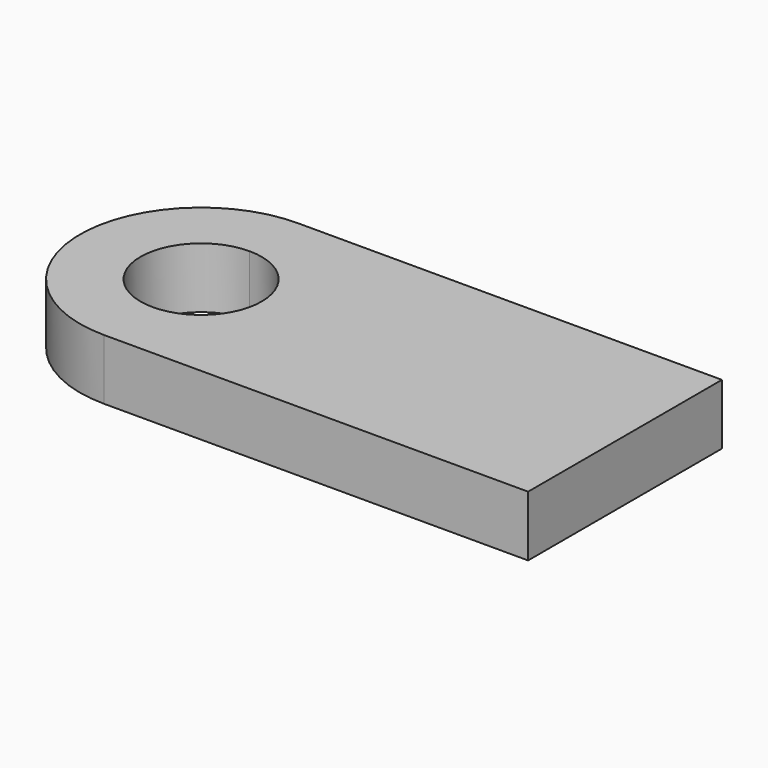
from build123d import *

# Parameters (mm, degrees)
F1_DEPTH = 20


with BuildPart() as f1:
    # F0 (on Top) → F1 (new body)
    with BuildSketch(Plane.XY):
        Polygon((70, 20), (70, 40), (14, 40), (14, -40), (70, -40), (70, -20), align=None)
        Polygon((14, -40), (14, 40), (0, 40), (-30, 40), (-30, 0), (-30, -40), (-26, -40), align=None)
        with BuildLine():
            Line((-30, 0), (-30, 40))
            Line((-30, 40), (-70, 40))
            ThreePointArc((-70, 40), (-41.7157287525, 28.2842712475), (-30, 0))
        make_face()
        with BuildLine():
            ThreePointArc((-30, 0), (-41.7157287525, 28.2842712475), (-70, 40))
            Line((-70, 40), (-70, 20))
            ThreePointArc((-70, 20), (-55.8578643763, 14.1421356237), (-50, 0))
            ThreePointArc((-50, 0), (-55.8578643763, -14.1421356237), (-70, -20))
            Line((-70, -20), (-70, -40))
            ThreePointArc((-70, -40), (-41.7157287525, -28.2842712475), (-30, 0))
        make_face()
        with BuildLine():
            Line((-70, 20), (-70, 40))
            ThreePointArc((-70, 40), (-110, 0), (-70, -40))
            Line((-70, -40), (-70, -20))
            ThreePointArc((-70, -20), (-90, 0), (-70, 20))
        make_face()
        with BuildLine():
            Line((-30, -40), (-30, 0))
            ThreePointArc((-30, 0), (-41.7157287525, -28.2842712475), (-70, -40))
            Line((-70, -40), (-30, -40))
        make_face()
    extrude(amount=F1_DEPTH)


solid = f1.part
